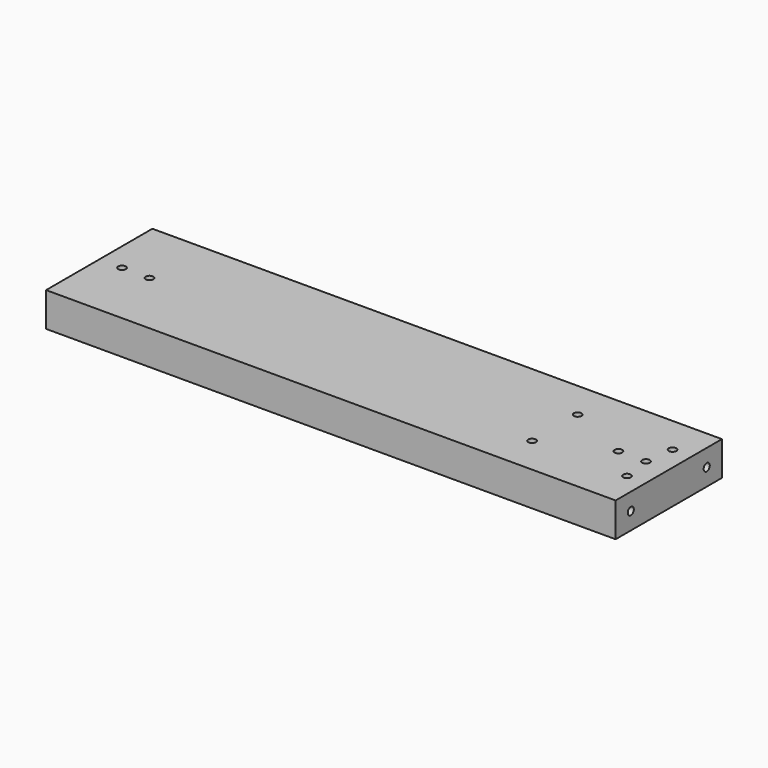
from build123d import *

# Parameters (mm, degrees)
CYLINDER005_R           = 2
CYLINDER005_DEPTH       = 13
CYLINDER005_PITCH_ANGLE = 90
CYLINDER006_R           = 2
CYLINDER006_DEPTH       = 13
CYLINDER006_PITCH_ANGLE = 90
CYLINDER003_R           = 2
CYLINDER003_DEPTH       = 25
CYLINDER004_R           = 2
CYLINDER004_DEPTH       = 25
CYLINDER002_R           = 2
CYLINDER002_DEPTH       = 25
ARRAY_X_COUNT           = 2
ARRAY_X_PITCH           = 50
ARRAY_Y_COUNT           = 2
ARRAY_Y_PITCH           = 30
CYLINDER001_R           = 2
CYLINDER001_DEPTH       = 25
CYLINDER_R              = 2
CYLINDER_DEPTH          = 25
BOX_W                   = 300
BOX_H                   = 70
BOX_DEPTH               = 18


with BuildPart() as cilindro005:
    # Cylinder005 → Cylinder005 (new body)
    with BuildSketch(Plane.XY):
        Circle(CYLINDER005_R)
    extrude(amount=CYLINDER005_DEPTH)


with BuildPart() as cilindro005_1:
    # Cylinder005 pitch: moved
    add(cilindro005.part.rotate(Axis((0, 0, 0), (0, 1, 0)), CYLINDER005_PITCH_ANGLE))


with BuildPart() as cilindro005_2:
    # Cylinder005 placement: moved
    add(cilindro005_1.part.moved(Location((0, 10, 9))))


with BuildPart() as fusion003:
    # Cylinder006 → Cylinder006 (new body)
    with BuildSketch(Plane.XY):
        Circle(CYLINDER006_R)
    extrude(amount=CYLINDER006_DEPTH)


with BuildPart() as fusion003_1:
    # Cylinder006 pitch: moved
    add(fusion003.part.rotate(Axis((0, 0, 0), (0, 1, 0)), CYLINDER006_PITCH_ANGLE))


with BuildPart() as fusion003_2:
    # Cylinder006 placement: moved
    add(fusion003_1.part.moved(Location((0, 60, 9))))

    # Fusion003: union Cilindro005
    add(cilindro005_2.part)


with BuildPart() as mirror_of_fusion003:
    # mirror: instance of Fusion003
    add(fusion003_2.part.mirror(Plane(origin=(300, 0, 18), x_dir=(0, -1, 0), z_dir=(1, 0, 0))))


with BuildPart() as mirror_of_fusion003_1:
    # mirror placement: moved
    add(mirror_of_fusion003.part.moved(Location((-300, 0, 0))))


with BuildPart() as cilindro003:
    # Cylinder003 → Cylinder003 (new body)
    with BuildSketch(Plane(origin=(26.5, 35, 0), x_dir=(1, 0, 0), z_dir=(0, 0, 1))):
        Circle(CYLINDER003_R)
    extrude(amount=CYLINDER003_DEPTH)


with BuildPart() as fusion001:
    # Cylinder004 → Cylinder004 (new body)
    with BuildSketch(Plane(origin=(12, 35, 0), x_dir=(1, 0, 0), z_dir=(0, 0, 1))):
        Circle(CYLINDER004_R)
    extrude(amount=CYLINDER004_DEPTH)

    # Fusion001: union Cilindro003
    add(cilindro003.part)


with BuildPart() as fusion001_1:
    # Fusion001 placement: moved
    add(fusion001.part.moved(Location((261.5, 0, 0))))


with BuildPart() as array:
    # Cylinder002 → Cylinder002 (new body)
    with BuildSketch(Plane.XY):
        Circle(CYLINDER002_R)
    extrude(amount=CYLINDER002_DEPTH)

    # Array X: Array ×2


with BuildPart() as array_1:
    add(array.part)
    with Locations(*[(i * ARRAY_X_PITCH, 0, 0) for i in range(1, ARRAY_X_COUNT)]):
        add(array.part)

    # Array Y: Array ×2


with BuildPart() as array_2:
    add(array_1.part)
    with Locations(*[(0, i * ARRAY_Y_PITCH, 0) for i in range(1, ARRAY_Y_COUNT)]):
        add(array_1.part)


with BuildPart() as array_3:
    # Array placement: moved
    add(array_2.part.moved(Location((240, 20, 0))))


with BuildPart() as cilindro001:
    # Cylinder001 → Cylinder001 (new body)
    with BuildSketch(Plane(origin=(26.5, 35, 0), x_dir=(1, 0, 0), z_dir=(0, 0, 1))):
        Circle(CYLINDER001_R)
    extrude(amount=CYLINDER001_DEPTH)


with BuildPart() as fusion002:
    # Cylinder → Cylinder (new body)
    with BuildSketch(Plane(origin=(12, 35, 0), x_dir=(1, 0, 0), z_dir=(0, 0, 1))):
        Circle(CYLINDER_R)
    extrude(amount=CYLINDER_DEPTH)

    # Fusion: union Cilindro001
    add(cilindro001.part)

    # Fusion002: union Fusion001, Array
    add(fusion001_1.part)
    add(array_3.part)


with BuildPart() as cut002:
    # Box → Box (new body)
    with BuildSketch(Plane.XY):
        with Locations((150, 35)):
            Rectangle(BOX_W, BOX_H)
    extrude(amount=BOX_DEPTH)

    # Cut: cut Fusion002
    add(fusion002.part, mode=Mode.SUBTRACT)

    # Cut001: cut Mirror of Fusion003
    add(mirror_of_fusion003_1.part, mode=Mode.SUBTRACT)

    # Cut002: cut Fusion003
    add(fusion003_2.part, mode=Mode.SUBTRACT)


solid = cut002.part
